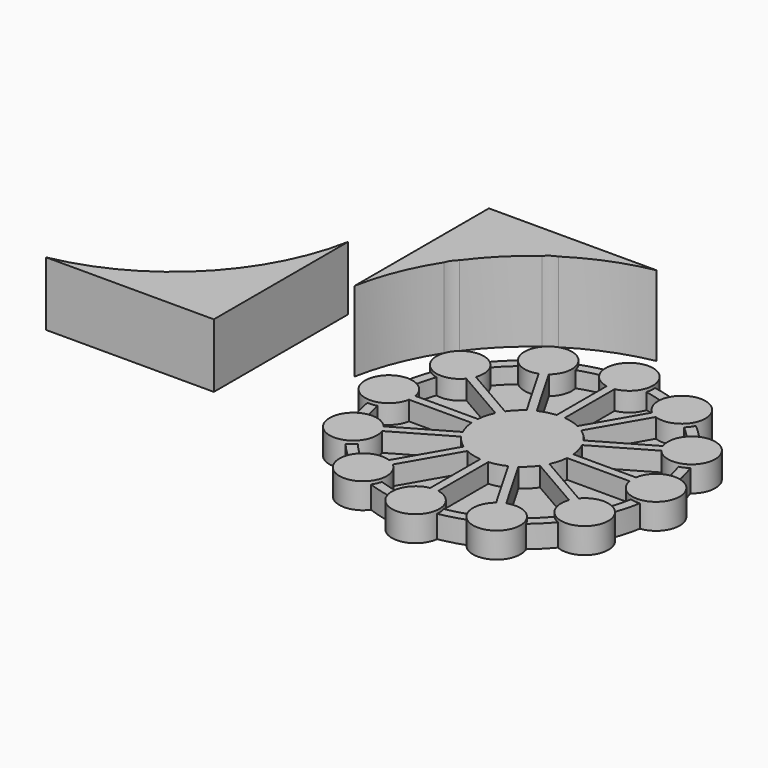
from build123d import *

# Parameters (mm, degrees)
F0_R          = 40.25
F1_DEPTH      = 2
F0_R_2        = 43.25
F2_DEPTH      = 7
F4_DEPTH      = 6
F4_DEPTH_BACK = 2
F5_COUNT      = 12
F8_DEPTH      = 25
F9_DEPTH      = 20


with BuildPart() as f1:
    # F0 (on Top) → F1 (new body)
    with BuildSketch(Plane.XY):
        Circle(F0_R)
    extrude(amount=F1_DEPTH)

    # F0 (on Top) → F2 (join)
    with BuildSketch(Plane.XY):
        Circle(F0_R_2)
        Circle(F0_R, mode=Mode.SUBTRACT)
    extrude(amount=F2_DEPTH)

    # F3 (on face) → F4 (join, two sides)
    with BuildSketch(Plane.XY.offset(2)) as f4_sk:
        with BuildLine():
            ThreePointArc((-1.25, 14.9478259289), (-10.1550480058, -11.0397010829), (15, 0))
            ThreePointArc((15, 0), (11.0397010829, 10.1550480058), (1.25, 14.9478259289))
            Line((1.25, 14.9478259289), (-1.25, 14.9478259289))
        make_face()
        with BuildLine():
            Line((-1.25, 14.9478259289), (1.25, 14.9478259289))
            ThreePointArc((1.25, 14.9478259289), (0, 15), (-1.25, 14.9478259289))
        make_face()
        with BuildLine():
            ThreePointArc((-1.25, 14.9478259289), (0, 15), (1.25, 14.9478259289))
            Line((1.25, 14.9478259289), (1.25, 34.5122436197))
            ThreePointArc((1.25, 34.5122436197), (0, 34.4060120647), (-1.25, 34.5122436197))
            Line((-1.25, 34.5122436197), (-1.25, 14.9478259289))
        make_face()
        with BuildLine():
            Line((1.25, 35.6158574725), (1.25, 34.5122436197))
            ThreePointArc((1.25, 34.5122436197), (5.6624976292, 37.0379177359), (7.4073336461, 41.8133457108))
            ThreePointArc((7.4073336461, 41.8133457108), (-4.7754279749, 47.47584334), (-1.25, 34.5122436197))
            Line((-1.25, 34.5122436197), (-1.25, 35.6158574725))
            Line((-1.25, 35.6158574725), (1.25, 35.6158574725))
        make_face()
        with BuildLine():
            ThreePointArc((-1.25, 34.5122436197), (0, 34.4060120647), (1.25, 34.5122436197))
            Line((1.25, 34.5122436197), (1.25, 35.6158574725))
            Line((1.25, 35.6158574725), (-1.25, 35.6158574725))
            Line((-1.25, 35.6158574725), (-1.25, 34.5122436197))
        make_face()
    extrude(amount=F4_DEPTH)
    extrude(f4_sk.sketch, amount=-F4_DEPTH_BACK)


with BuildPart() as f5_1:
    # F5: instance of F1
    add(f1.part.rotate(Axis((0, 0, 8), (0, 0, 1)), 1 * 360 / F5_COUNT))


with BuildPart() as f5_2:
    # F5: instance of F1
    add(f1.part.rotate(Axis((0, 0, 8), (0, 0, 1)), 2 * 360 / F5_COUNT))


with BuildPart() as f5_3:
    # F5: instance of F1
    add(f1.part.rotate(Axis((0, 0, 8), (0, 0, 1)), 3 * 360 / F5_COUNT))


with BuildPart() as f5_4:
    # F5: instance of F1
    add(f1.part.rotate(Axis((0, 0, 8), (0, 0, 1)), 4 * 360 / F5_COUNT))


with BuildPart() as f5_5:
    # F5: instance of F1
    add(f1.part.rotate(Axis((0, 0, 8), (0, 0, 1)), 5 * 360 / F5_COUNT))


with BuildPart() as f5_6:
    # F5: instance of F1
    add(f1.part.rotate(Axis((0, 0, 8), (0, 0, 1)), 6 * 360 / F5_COUNT))


with BuildPart() as f5_7:
    # F5: instance of F1
    add(f1.part.rotate(Axis((0, 0, 8), (0, 0, 1)), 7 * 360 / F5_COUNT))


with BuildPart() as f5_8:
    # F5: instance of F1
    add(f1.part.rotate(Axis((0, 0, 8), (0, 0, 1)), 8 * 360 / F5_COUNT))


with BuildPart() as f5_9:
    # F5: instance of F1
    add(f1.part.rotate(Axis((0, 0, 8), (0, 0, 1)), 9 * 360 / F5_COUNT))


with BuildPart() as f5_10:
    # F5: instance of F1
    add(f1.part.rotate(Axis((0, 0, 8), (0, 0, 1)), 10 * 360 / F5_COUNT))


with BuildPart() as f5_11:
    # F5: instance of F1
    add(f1.part.rotate(Axis((0, 0, 8), (0, 0, 1)), 11 * 360 / F5_COUNT))


with BuildPart() as f1_1:
    add(f1.part)

    # F6: union F5_4, F5_5, F5_6, F5_7, F5_9, F5_8, F5_10, F5_11, F5_3, F5_2, F5_1
    add(f5_4.part)
    add(f5_5.part)
    add(f5_6.part)
    add(f5_7.part)
    add(f5_9.part)
    add(f5_8.part)
    add(f5_10.part)
    add(f5_11.part)
    add(f5_3.part)
    add(f5_2.part)
    add(f5_1.part)


with BuildPart() as f8:
    # F7 (on face) → F8 (new body)
    with BuildSketch(Plane.XY.offset(8)):
        with BuildLine():
            Line((0, 52.5), (-52.5, 52.5))
            Line((-52.5, 52.5), (-52.5, 0))
            ThreePointArc((-52.5, 0), (-48.9797558206, 12.0770455366), (-43.2325997049, 23.2671011466))
            ThreePointArc((-43.2325997049, 23.2671011466), (-42.3229324795, 25.0921240978), (-40.9501056978, 26.5999536175))
            ThreePointArc((-40.9501056978, 26.5999536175), (-34.3297431889, 34.3297431889), (-26.5999536175, 40.9501056978))
            ThreePointArc((-26.5999536175, 40.9501056978), (-25.0921240978, 42.3229324795), (-23.2671011466, 43.2325997049))
            ThreePointArc((-23.2671011466, 43.2325997049), (-12.0770455366, 48.9797558206), (0, 52.5))
        make_face()
    extrude(amount=F8_DEPTH)


with BuildPart() as f9:
    # F7 (on face) → F9 (new body)
    with BuildSketch(Plane.XY.offset(8)):
        with BuildLine():
            Line((-74.2941743135, -27.8537180275), (-74.2941743135, 24.6462819725))
            ThreePointArc((-74.2941743135, 24.6462819725), (-92.4643966502, -9.6834956908), (-126.7941743135, -27.8537180275))
            Line((-126.7941743135, -27.8537180275), (-74.2941743135, -27.8537180275))
        make_face()
    extrude(amount=F9_DEPTH)


solid = Compound([f1_1.part, f8.part, f9.part])
